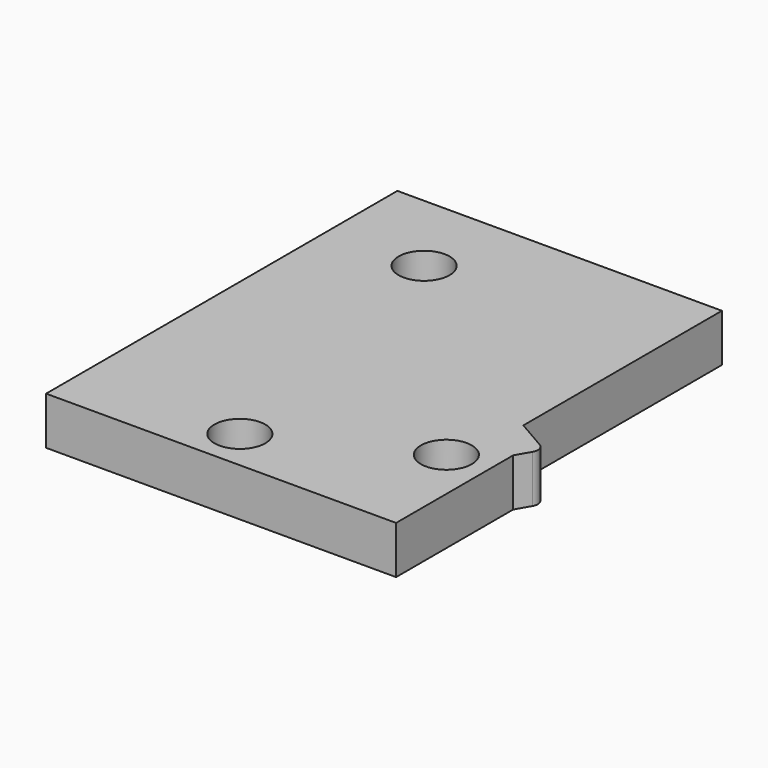
from build123d import *

# Parameters (mm, degrees)
SKETCH_R  = 0.8
PAD_DEPTH = 1.5


with BuildPart() as part:
    # Sketch → Pad (new body)
    with BuildSketch(Plane.XY):
        with BuildLine():
            Line((0, 0), (11, 0))
            Line((11, 0), (11, 4.6))
            Line((11, 4.6), (11.256218, 5.043782))
            ThreePointArc((11.256218, 5.043782), (11.286188, 5.271428), (11.14641, 5.45359))
            Line((11.14641, 5.45359), (10.2, 6))
            Line((10.2, 6), (10.2, 13.8))
            Line((10.2, 13.8), (0, 13.8))
            Line((0, 13.8), (0, 0))
        make_face()
        with Locations((5.05, 1.3)):
            Circle(SKETCH_R, mode=Mode.SUBTRACT)
        with Locations((9.7, 3.6)):
            Circle(SKETCH_R, mode=Mode.SUBTRACT)
        with Locations((3, 11.1)):
            Circle(SKETCH_R, mode=Mode.SUBTRACT)
    extrude(amount=PAD_DEPTH)


solid = part.part
